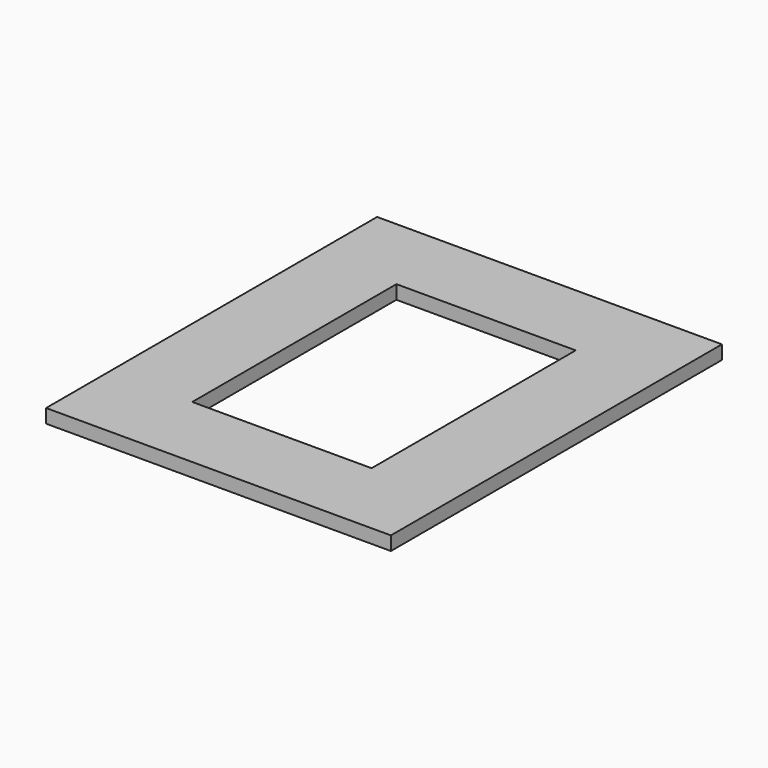
from build123d import *

# Parameters (mm, degrees)
F0_W     = 50
F0_H     = 60
F1_DEPTH = 2
F2_W     = 26
F2_H     = 37
F3_DEPTH = 25.4


with BuildPart() as f1:
    # F0 (on Top) → F1 (new body)
    with BuildSketch(Plane.XY):
        Rectangle(F0_W, F0_H)
    extrude(amount=F1_DEPTH)

    # F2 (on face) → F3 (cut)
    with BuildSketch(Plane(origin=(0, 0, 0), x_dir=(1, 0, 0), z_dir=(0, 0, -1))):
        Rectangle(F2_W, F2_H)
    extrude(amount=-F3_DEPTH, mode=Mode.SUBTRACT)


solid = f1.part
